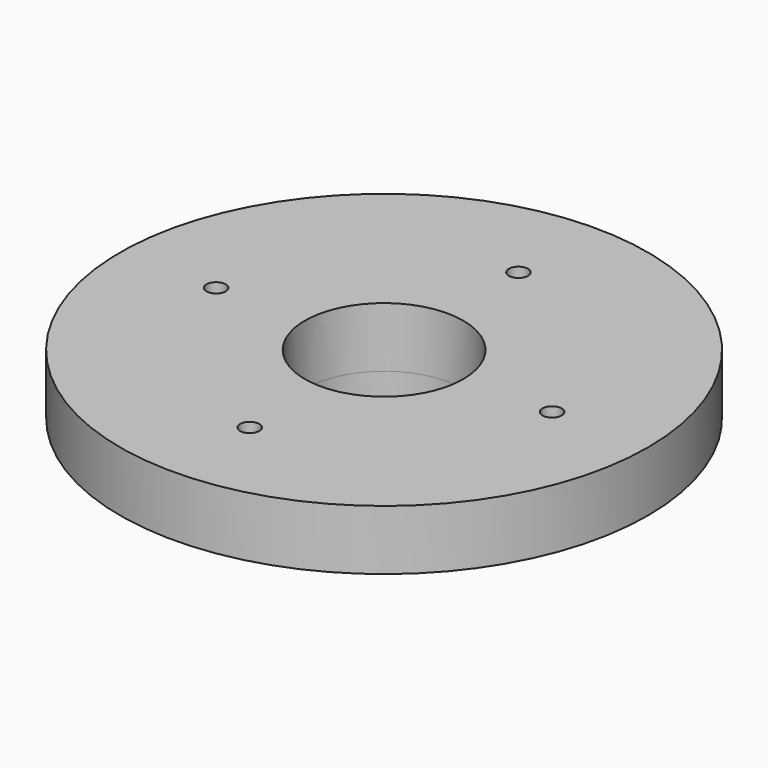
from build123d import *

# Parameters (mm, degrees)
F0_R           = 11
F0_R_2         = 3.8
F0_R_3         = 3.3
F1_DEPTH       = 2.5
F2_DEPTH       = 1
F3_D           = 0.8
F3_CSINK_D     = 1.6
F3_CSINK_ANGLE = 135


with BuildPart() as f1:
    # F0 (on Top) → F1 (new body)
    with BuildSketch(Plane.XY):
        Circle(F0_R)
        Circle(F0_R_2, mode=Mode.SUBTRACT)
        Circle(F0_R)
        Circle(F0_R_2, mode=Mode.SUBTRACT)
        Circle(F0_R_2)
        Circle(F0_R_3, mode=Mode.SUBTRACT)
    extrude(amount=F1_DEPTH)

    # F0 (on Top) → F2 (join)
    with BuildSketch(Plane.XY):
        Circle(F0_R_2)
        Circle(F0_R_3, mode=Mode.SUBTRACT)
    extrude(amount=-F2_DEPTH)

    # F3 (through all)
    with Locations(Plane(origin=(0, 0, 0), x_dir=(1, 0, 0), z_dir=(0, 0, -1))):
        with Locations((0, 7), (7, 0), (0, -7), (-7, 0)):
            CounterSinkHole(F3_D / 2, F3_CSINK_D / 2, counter_sink_angle=F3_CSINK_ANGLE)


solid = f1.part
